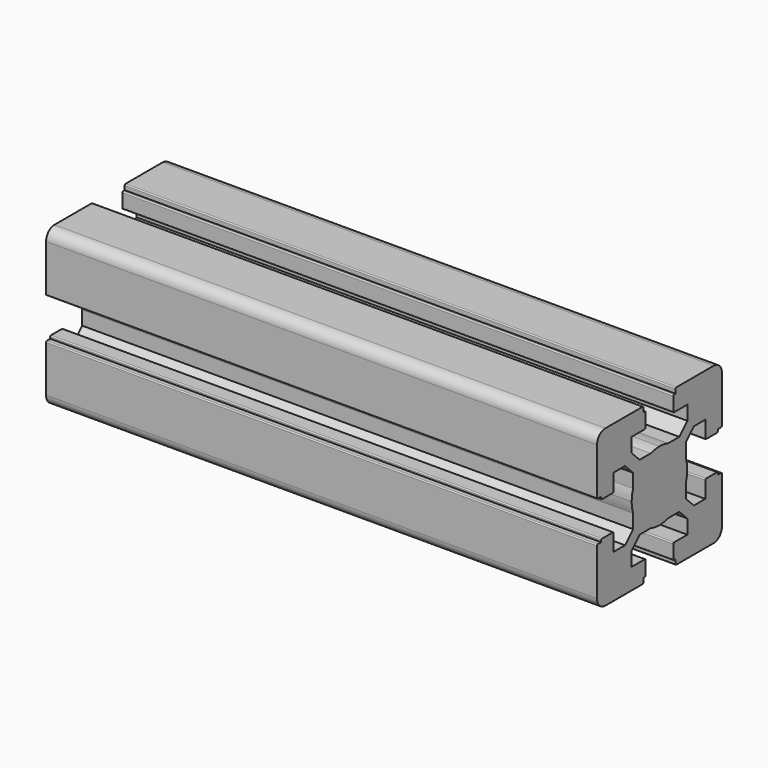
from build123d import *

# Parameters (mm, degrees)
F1_DEPTH = 158.75


with BuildPart() as f1:
    # F0 (on Right) → F1 (new body)
    with BuildSketch(Plane.YZ):
        with BuildLine():
            Line((-20.088481, -9.788837), (-20.088481, -10.288837))
            Line((-20.088481, -10.288837), (-21.28859, -10.288837))
            ThreePointArc((-21.28859, -10.288837), (-21.500722, -10.376705), (-21.58859, -10.588837))
            Line((-21.58859, -10.588837), (-21.58859, -23.988949))
            ThreePointArc((-21.58859, -23.988949), (-20.70991, -26.11027), (-18.58859, -26.988949))
            Line((-18.58859, -26.988949), (-5.188544, -26.988949))
            ThreePointArc((-5.188544, -26.988949), (-4.976411, -26.901081), (-4.888544, -26.688949))
            Line((-4.888544, -26.688949), (-4.888544, -25.488841))
            Line((-4.888544, -25.488841), (-4.388544, -25.488841))
            ThreePointArc((-4.388544, -25.488841), (-4.176411, -25.400973), (-4.088544, -25.188841))
            Line((-4.088544, -25.188841), (-4.088544, -21.288841))
            ThreePointArc((-4.088544, -21.288841), (-4.176411, -21.076709), (-4.388544, -20.988841))
            Line((-4.388544, -20.988841), (-9.138663, -20.988841))
            Line((-9.138663, -20.988841), (-9.138663, -16.881665))
            Line((-9.138663, -16.881665), (-6.245729, -13.988731))
            Line((-6.245729, -13.988731), (-2.211433, -13.988731))
            ThreePointArc((-2.211433, -13.988731), (-0.669869, -14.363044), (0.91149, -14.48887))
            Line((0.91149, -14.48887), (0.91149, -4.48887))
            Line((0.91149, -4.48887), (-9.08851, -4.48887))
            ThreePointArc((-9.08851, -4.48887), (-8.962684, -6.070229), (-8.588371, -7.611793))
            Line((-8.588371, -7.611793), (-8.588371, -11.646022))
            Line((-8.588371, -11.646022), (-11.481305, -14.538956))
            Line((-11.481305, -14.538956), (-15.588481, -14.538956))
            Line((-15.588481, -14.538956), (-15.588481, -9.788837))
            ThreePointArc((-15.588481, -9.788837), (-15.676349, -9.576705), (-15.888481, -9.488837))
            Line((-15.888481, -9.488837), (-19.788481, -9.488837))
            ThreePointArc((-19.788481, -9.488837), (-20.000613, -9.576705), (-20.088481, -9.788837))
        make_face()
        with BuildLine():
            ThreePointArc((-8.588371, -1.365947), (-8.962684, -2.907511), (-9.08851, -4.48887))
            Line((-9.08851, -4.48887), (0.91149, -4.48887))
            Line((0.91149, -4.48887), (0.91149, 5.51113))
            ThreePointArc((0.91149, 5.51113), (-0.669869, 5.385303), (-2.211433, 5.010991))
            Line((-2.211433, 5.010991), (-6.245729, 5.010991))
            Line((-6.245729, 5.010991), (-9.138663, 7.903925))
            Line((-9.138663, 7.903925), (-9.138663, 12.011101))
            Line((-9.138663, 12.011101), (-4.388544, 12.011101))
            ThreePointArc((-4.388544, 12.011101), (-4.176411, 12.098969), (-4.088544, 12.311101))
            Line((-4.088544, 12.311101), (-4.088544, 16.211101))
            ThreePointArc((-4.088544, 16.211101), (-4.176411, 16.423233), (-4.388544, 16.511101))
            Line((-4.388544, 16.511101), (-4.888544, 16.511101))
            Line((-4.888544, 16.511101), (-4.888544, 17.711209))
            ThreePointArc((-4.888544, 17.711209), (-4.976411, 17.923341), (-5.188544, 18.011209))
            Line((-5.188544, 18.011209), (-18.58859, 18.011209))
            ThreePointArc((-18.58859, 18.011209), (-20.70991, 17.13253), (-21.58859, 15.011209))
            Line((-21.58859, 15.011209), (-21.58859, 1.611097))
            ThreePointArc((-21.58859, 1.611097), (-21.500722, 1.398965), (-21.28859, 1.311097))
            Line((-21.28859, 1.311097), (-20.088481, 1.311097))
            Line((-20.088481, 1.311097), (-20.088481, 0.811097))
            ThreePointArc((-20.088481, 0.811097), (-20.000613, 0.598965), (-19.788481, 0.511097))
            Line((-19.788481, 0.511097), (-15.888481, 0.511097))
            ThreePointArc((-15.888481, 0.511097), (-15.676349, 0.598965), (-15.588481, 0.811097))
            Line((-15.588481, 0.811097), (-15.588481, 5.561216))
            Line((-15.588481, 5.561216), (-11.481305, 5.561216))
            Line((-11.481305, 5.561216), (-8.588371, 2.668282))
            Line((-8.588371, 2.668282), (-8.588371, -1.365947))
        make_face()
        with BuildLine():
            Line((0.91149, 5.51113), (0.91149, -4.48887))
            Line((0.91149, -4.48887), (10.91149, -4.48887))
            ThreePointArc((10.91149, -4.48887), (10.785663, -2.907511), (10.41135, -1.365947))
            Line((10.41135, -1.365947), (10.41135, 2.668282))
            Line((10.41135, 2.668282), (13.304285, 5.561216))
            Line((13.304285, 5.561216), (14.016842, 5.561216))
            Line((14.016842, 5.561216), (17.41146, 5.561216))
            Line((17.41146, 5.561216), (17.41146, 0.811097))
            ThreePointArc((17.41146, 0.811097), (17.499328, 0.598965), (17.71146, 0.511097))
            Line((17.71146, 0.511097), (21.61146, 0.511097))
            ThreePointArc((21.61146, 0.511097), (21.823593, 0.598965), (21.91146, 0.811097))
            Line((21.91146, 0.811097), (21.91146, 1.311097))
            Line((21.91146, 1.311097), (23.111569, 1.311097))
            ThreePointArc((23.111569, 1.311097), (23.323701, 1.398965), (23.411569, 1.611097))
            Line((23.411569, 1.611097), (23.411569, 15.011209))
            ThreePointArc((23.411569, 15.011209), (22.532889, 17.13253), (20.411569, 18.011209))
            Line((20.411569, 18.011209), (7.011523, 18.011209))
            ThreePointArc((7.011523, 18.011209), (6.799391, 17.923341), (6.711523, 17.711209))
            Line((6.711523, 17.711209), (6.711523, 16.511101))
            Line((6.711523, 16.511101), (6.211523, 16.511101))
            ThreePointArc((6.211523, 16.511101), (5.999391, 16.423233), (5.911523, 16.211101))
            Line((5.911523, 16.211101), (5.911523, 12.311101))
            ThreePointArc((5.911523, 12.311101), (5.999391, 12.098969), (6.211523, 12.011101))
            Line((6.211523, 12.011101), (10.961642, 12.011101))
            Line((10.961642, 12.011101), (10.961642, 7.903925))
            Line((10.961642, 7.903925), (8.068708, 5.010991))
            Line((8.068708, 5.010991), (4.034413, 5.010991))
            ThreePointArc((4.034413, 5.010991), (2.492849, 5.385303), (0.91149, 5.51113))
        make_face()
        with BuildLine():
            Line((10.91149, -4.48887), (0.91149, -4.48887))
            Line((0.91149, -4.48887), (0.91149, -14.48887))
            ThreePointArc((0.91149, -14.48887), (2.492849, -14.363044), (4.034413, -13.988731))
            Line((4.034413, -13.988731), (8.068708, -13.988731))
            Line((8.068708, -13.988731), (10.961642, -16.881665))
            Line((10.961642, -16.881665), (10.961642, -20.988841))
            Line((10.961642, -20.988841), (6.211523, -20.988841))
            ThreePointArc((6.211523, -20.988841), (5.999391, -21.076709), (5.911523, -21.288841))
            Line((5.911523, -21.288841), (5.911523, -25.188841))
            ThreePointArc((5.911523, -25.188841), (5.999391, -25.400973), (6.211523, -25.488841))
            Line((6.211523, -25.488841), (6.711523, -25.488841))
            Line((6.711523, -25.488841), (6.711523, -26.688949))
            ThreePointArc((6.711523, -26.688949), (6.799391, -26.901081), (7.011523, -26.988949))
            Line((7.011523, -26.988949), (20.411569, -26.988949))
            ThreePointArc((20.411569, -26.988949), (22.532889, -26.11027), (23.411569, -23.988949))
            Line((23.411569, -23.988949), (23.411569, -10.588837))
            ThreePointArc((23.411569, -10.588837), (23.323701, -10.376705), (23.111569, -10.288837))
            Line((23.111569, -10.288837), (21.91146, -10.288837))
            Line((21.91146, -10.288837), (21.91146, -9.788837))
            ThreePointArc((21.91146, -9.788837), (21.823593, -9.576705), (21.61146, -9.488837))
            Line((21.61146, -9.488837), (17.71146, -9.488837))
            ThreePointArc((17.71146, -9.488837), (17.499328, -9.576705), (17.41146, -9.788837))
            Line((17.41146, -9.788837), (17.41146, -14.538956))
            Line((17.41146, -14.538956), (13.304285, -14.538956))
            Line((13.304285, -14.538956), (10.41135, -11.646022))
            Line((10.41135, -11.646022), (10.41135, -7.611793))
            ThreePointArc((10.41135, -7.611793), (10.785663, -6.070229), (10.91149, -4.48887))
        make_face()
    extrude(amount=F1_DEPTH)


solid = f1.part
